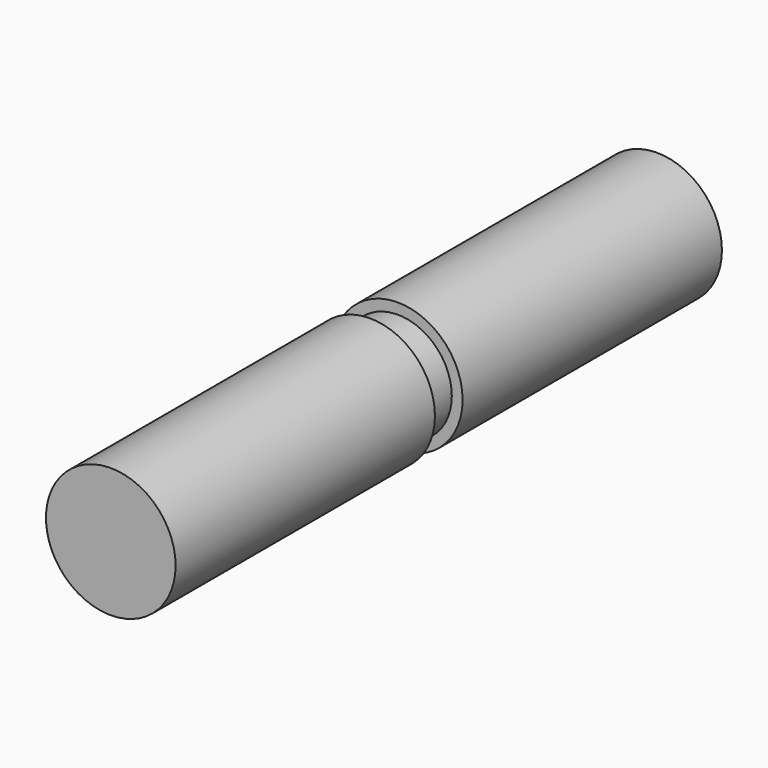
from build123d import *

# Parameters (mm, degrees)
F0_R     = 12.5
F1_DEPTH = 4
F2_R     = 15
F3_DEPTH = 75


with BuildPart() as f1:
    # F0 (on Front) → F1 (new body)
    with BuildSketch(Plane.XZ):
        Circle(F0_R)
    extrude(amount=F1_DEPTH)

    # F2 (on face) → F3 (join)
    with BuildSketch(Plane.XZ.offset(4)):
        Circle(F2_R)
    extrude(amount=F3_DEPTH)

    # F4: F1 across plane


with BuildPart() as f1_1:
    add(f1.part)
    add(f1.part.mirror(Plane.XZ))


solid = f1_1.part
